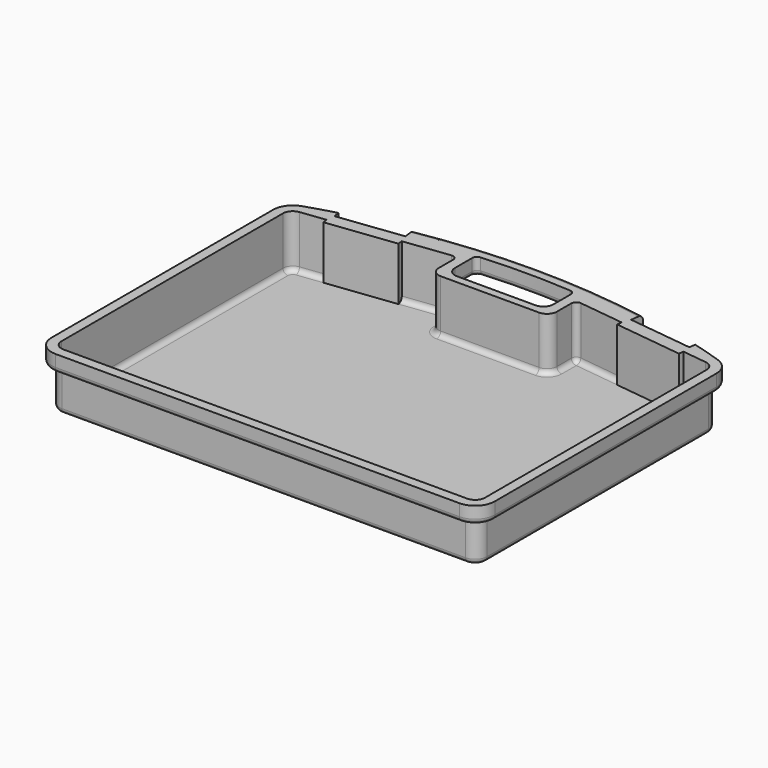
from build123d import *

# Parameters (mm, degrees)
F1_DEPTH = 57
F2_DEPTH = 80
F3_DEPTH = 77
F4_DEPTH = 40
F5_DEPTH = 57.001
F6_R     = 5


with BuildPart() as f1:
    # F0 (on Top) → F1 (new body)
    with BuildSketch(Plane.XY):
        with BuildLine():
            ThreePointArc((420, -10), (434.1421356237, -4.1421356237), (440, 10))
            Line((440, 10), (440, 291.1509565045))
            ThreePointArc((440, 291.1509565045), (436.1968936244, 302.883843486), (426.233936308, 310.1545887391))
            ThreePointArc((426.233936308, 310.1545887391), (411.1388826648, 314.9118550517), (395.9368508188, 319.315314489))
            Line((395.9368508188, 319.315314489), (395.1555055268, 312.9411818438))
            Line((395.1555055268, 312.9411818438), (329.6458449895, 320.9713982968))
            Line((329.6458449895, 320.9713982968), (331.2275542908, 333.8748162814))
            ThreePointArc((331.2275542908, 333.8748162814), (215, 343.916031702), (98.7724457092, 333.8748162814))
            Line((98.7724457092, 333.8748162814), (100.3541550105, 320.9713982968))
            Line((100.3541550105, 320.9713982968), (34.8444944732, 312.9411818438))
            Line((34.8444944732, 312.9411818438), (34.0631491812, 319.315314489))
            ThreePointArc((34.0631491812, 319.315314489), (18.8611173352, 314.9118550517), (3.766063692, 310.1545887391))
            ThreePointArc((3.766063692, 310.1545887391), (-6.1968936244, 302.883843486), (-10, 291.1509565045))
            Line((-10, 291.1509565045), (-10, 10))
            ThreePointArc((-10, 10), (-4.1421356237, -4.1421356237), (10, -10))
            Line((10, -10), (420, -10))
        make_face()
        with BuildLine():
            ThreePointArc((10, -2), (1.5147186258, 1.5147186258), (-2, 10))
            Line((-2, 10), (-2, 291.1509565045))
            ThreePointArc((-2, 291.1509565045), (1.0133300867, 299.1032997987), (8.5399606449, 303.0618038749))
            Line((8.5399606449, 303.0618038749), (35.6481864032, 306.3847476776))
            Line((35.6481864032, 306.3847476776), (36.2565361345, 301.4218946065))
            Line((36.2565361345, 301.4218946065), (101.7661966719, 309.4521110595))
            Line((101.7661966719, 309.4521110595), (101.1578469406, 314.4149641305))
            Line((101.1578469406, 314.4149641305), (149.1483103762, 320.2976661001))
            ThreePointArc((149.1483103762, 320.2976661001), (154.6388669216, 318.5918959167), (157, 313.3496718006))
            Line((157, 313.3496718006), (157, 297))
            ThreePointArc((157, 297), (159.9289321881, 289.9289321881), (167, 287))
            Line((167, 287), (263, 287))
            ThreePointArc((263, 287), (270.0710678119, 289.9289321881), (273, 297))
            Line((273, 297), (273, 313.3496718006))
            ThreePointArc((273, 313.3496718006), (275.3611330784, 318.5918959167), (280.8516896238, 320.2976661001))
            Line((280.8516896238, 320.2976661001), (328.8421530594, 314.4149641305))
            Line((328.8421530594, 314.4149641305), (328.2338033281, 309.4521110595))
            Line((328.2338033281, 309.4521110595), (393.7434638655, 301.4218946065))
            Line((393.7434638655, 301.4218946065), (394.3518135968, 306.3847476776))
            Line((394.3518135968, 306.3847476776), (421.4600393551, 303.0618038749))
            ThreePointArc((421.4600393551, 303.0618038749), (428.9866699133, 299.1032997987), (432, 291.1509565045))
            Line((432, 291.1509565045), (432, 10))
            ThreePointArc((432, 10), (428.4852813742, 1.5147186258), (420, -2))
            Line((420, -2), (10, -2))
        make_face(mode=Mode.SUBTRACT)
        with BuildLine():
            Line((255, 293), (175, 293))
            ThreePointArc((175, 293), (167.9289321881, 295.9289321881), (165, 303))
            Line((165, 303), (165, 325))
            ThreePointArc((165, 325), (166.345978485, 328.412935213), (169.6592507073, 329.988375479))
            ThreePointArc((169.6592507073, 329.988375479), (215, 331.5351563629), (260.3407492927, 329.988375479))
            ThreePointArc((260.3407492927, 329.988375479), (263.654021515, 328.412935213), (265, 325))
            Line((265, 325), (265, 303))
            ThreePointArc((265, 303), (262.0710678119, 295.9289321881), (255, 293))
        make_face(mode=Mode.SUBTRACT)
        with BuildLine():
            Line((-2, 291.1509565045), (-2, 10))
            ThreePointArc((-2, 10), (1.5147186258, 1.5147186258), (10, -2))
            Line((10, -2), (420, -2))
            ThreePointArc((420, -2), (428.4852813742, 1.5147186258), (432, 10))
            Line((432, 10), (432, 291.1509565045))
            ThreePointArc((432, 291.1509565045), (428.9866699133, 299.1032997987), (421.4600393551, 303.0618038749))
            Line((421.4600393551, 303.0618038749), (394.3518135968, 306.3847476776))
            Line((394.3518135968, 306.3847476776), (393.7434638655, 301.4218946065))
            Line((393.7434638655, 301.4218946065), (328.2338033281, 309.4521110595))
            Line((328.2338033281, 309.4521110595), (328.8421530594, 314.4149641305))
            Line((328.8421530594, 314.4149641305), (280.8516896238, 320.2976661001))
            ThreePointArc((280.8516896238, 320.2976661001), (275.3611330784, 318.5918959167), (273, 313.3496718006))
            Line((273, 313.3496718006), (273, 297))
            ThreePointArc((273, 297), (270.0710678119, 289.9289321881), (263, 287))
            Line((263, 287), (167, 287))
            ThreePointArc((167, 287), (159.9289321881, 289.9289321881), (157, 297))
            Line((157, 297), (157, 313.3496718006))
            ThreePointArc((157, 313.3496718006), (154.6388669216, 318.5918959167), (149.1483103762, 320.2976661001))
            Line((149.1483103762, 320.2976661001), (101.1578469406, 314.4149641305))
            Line((101.1578469406, 314.4149641305), (101.7661966719, 309.4521110595))
            Line((101.7661966719, 309.4521110595), (36.2565361345, 301.4218946065))
            Line((36.2565361345, 301.4218946065), (35.6481864032, 306.3847476776))
            Line((35.6481864032, 306.3847476776), (8.5399606449, 303.0618038749))
            ThreePointArc((8.5399606449, 303.0618038749), (1.0133300867, 299.1032997987), (-2, 291.1509565045))
        make_face()
        with BuildLine():
            Line((420, 0), (10, 0))
            ThreePointArc((10, 0), (2.9289321881, 2.9289321881), (0, 10))
            Line((0, 10), (0, 291.1509565045))
            ThreePointArc((0, 291.1509565045), (2.5111084056, 297.7779092497), (8.7833005374, 301.0766626465))
            Line((8.7833005374, 301.0766626465), (33.9063850673, 304.1562665566))
            Line((33.9063850673, 304.1562665566), (34.5147347986, 299.1934134856))
            Line((34.5147347986, 299.1934134856), (103.9946777928, 307.7103097236))
            Line((103.9946777928, 307.7103097236), (103.3863280615, 312.6731627946))
            Line((103.3863280615, 312.6731627946), (149.3916502687, 318.3125248716))
            ThreePointArc((149.3916502687, 318.3125248716), (153.3134763726, 317.0941175978), (155, 313.3496718006))
            Line((155, 313.3496718006), (155, 295))
            ThreePointArc((155, 295), (157.9289321881, 287.9289321881), (165, 285))
            Line((165, 285), (265, 285))
            ThreePointArc((265, 285), (272.0710678119, 287.9289321881), (275, 295))
            Line((275, 295), (275, 313.3496718006))
            ThreePointArc((275, 313.3496718006), (276.6865236274, 317.0941175978), (280.6083497313, 318.3125248716))
            Line((280.6083497313, 318.3125248716), (326.6136719385, 312.6731627946))
            Line((326.6136719385, 312.6731627946), (326.0053222072, 307.7103097236))
            Line((326.0053222072, 307.7103097236), (395.4852652014, 299.1934134856))
            Line((395.4852652014, 299.1934134856), (396.0936149327, 304.1562665566))
            Line((396.0936149327, 304.1562665566), (421.2166994626, 301.0766626465))
            ThreePointArc((421.2166994626, 301.0766626465), (427.4888915944, 297.7779092497), (430, 291.1509565045))
            Line((430, 291.1509565045), (430, 10))
            ThreePointArc((430, 10), (427.0710678119, 2.9289321881), (420, 0))
        make_face(mode=Mode.SUBTRACT)
        with BuildLine():
            ThreePointArc((0, 10), (2.9289321881, 2.9289321881), (10, 0))
            Line((10, 0), (420, 0))
            ThreePointArc((420, 0), (427.0710678119, 2.9289321881), (430, 10))
            Line((430, 10), (430, 291.1509565045))
            ThreePointArc((430, 291.1509565045), (427.4888915944, 297.7779092497), (421.2166994626, 301.0766626465))
            Line((421.2166994626, 301.0766626465), (396.0936149327, 304.1562665566))
            Line((396.0936149327, 304.1562665566), (395.4852652014, 299.1934134856))
            Line((395.4852652014, 299.1934134856), (326.0053222072, 307.7103097236))
            Line((326.0053222072, 307.7103097236), (326.6136719385, 312.6731627946))
            Line((326.6136719385, 312.6731627946), (280.6083497313, 318.3125248716))
            ThreePointArc((280.6083497313, 318.3125248716), (276.6865236274, 317.0941175978), (275, 313.3496718006))
            Line((275, 313.3496718006), (275, 295))
            ThreePointArc((275, 295), (272.0710678119, 287.9289321881), (265, 285))
            Line((265, 285), (165, 285))
            ThreePointArc((165, 285), (157.9289321881, 287.9289321881), (155, 295))
            Line((155, 295), (155, 313.3496718006))
            ThreePointArc((155, 313.3496718006), (153.3134763726, 317.0941175978), (149.3916502687, 318.3125248716))
            Line((149.3916502687, 318.3125248716), (103.3863280615, 312.6731627946))
            Line((103.3863280615, 312.6731627946), (103.9946777928, 307.7103097236))
            Line((103.9946777928, 307.7103097236), (34.5147347986, 299.1934134856))
            Line((34.5147347986, 299.1934134856), (33.9063850673, 304.1562665566))
            Line((33.9063850673, 304.1562665566), (8.7833005374, 301.0766626465))
            ThreePointArc((8.7833005374, 301.0766626465), (2.5111084056, 297.7779092497), (0, 291.1509565045))
            Line((0, 291.1509565045), (0, 10))
        make_face()
        with BuildLine():
            Line((395.1555055268, 312.9411818438), (395.9368508188, 319.315314489))
            ThreePointArc((395.9368508188, 319.315314489), (363.7604305222, 327.3871945773), (331.2275542908, 333.8748162814))
            Line((331.2275542908, 333.8748162814), (329.6458449895, 320.9713982968))
            Line((329.6458449895, 320.9713982968), (395.1555055268, 312.9411818438))
        make_face()
        with BuildLine():
            Line((100.3541550105, 320.9713982968), (98.7724457092, 333.8748162814))
            ThreePointArc((98.7724457092, 333.8748162814), (66.2395694778, 327.3871945773), (34.0631491812, 319.315314489))
            Line((34.0631491812, 319.315314489), (34.8444944732, 312.9411818438))
            Line((34.8444944732, 312.9411818438), (100.3541550105, 320.9713982968))
        make_face()
    extrude(amount=F1_DEPTH)

    # F0 (on Top) → F2 (join)
    with BuildSketch(Plane.XY):
        with BuildLine():
            ThreePointArc((0, 10), (2.9289321881, 2.9289321881), (10, 0))
            Line((10, 0), (420, 0))
            ThreePointArc((420, 0), (427.0710678119, 2.9289321881), (430, 10))
            Line((430, 10), (430, 291.1509565045))
            ThreePointArc((430, 291.1509565045), (427.4888915944, 297.7779092497), (421.2166994626, 301.0766626465))
            Line((421.2166994626, 301.0766626465), (396.0936149327, 304.1562665566))
            Line((396.0936149327, 304.1562665566), (395.4852652014, 299.1934134856))
            Line((395.4852652014, 299.1934134856), (326.0053222072, 307.7103097236))
            Line((326.0053222072, 307.7103097236), (326.6136719385, 312.6731627946))
            Line((326.6136719385, 312.6731627946), (280.6083497313, 318.3125248716))
            ThreePointArc((280.6083497313, 318.3125248716), (276.6865236274, 317.0941175978), (275, 313.3496718006))
            Line((275, 313.3496718006), (275, 295))
            ThreePointArc((275, 295), (272.0710678119, 287.9289321881), (265, 285))
            Line((265, 285), (165, 285))
            ThreePointArc((165, 285), (157.9289321881, 287.9289321881), (155, 295))
            Line((155, 295), (155, 313.3496718006))
            ThreePointArc((155, 313.3496718006), (153.3134763726, 317.0941175978), (149.3916502687, 318.3125248716))
            Line((149.3916502687, 318.3125248716), (103.3863280615, 312.6731627946))
            Line((103.3863280615, 312.6731627946), (103.9946777928, 307.7103097236))
            Line((103.9946777928, 307.7103097236), (34.5147347986, 299.1934134856))
            Line((34.5147347986, 299.1934134856), (33.9063850673, 304.1562665566))
            Line((33.9063850673, 304.1562665566), (8.7833005374, 301.0766626465))
            ThreePointArc((8.7833005374, 301.0766626465), (2.5111084056, 297.7779092497), (0, 291.1509565045))
            Line((0, 291.1509565045), (0, 10))
        make_face()
    extrude(amount=F2_DEPTH)

    # F3 (cut): a face of the model
    f3_faces = [f1.faces().sort_by_distance(p)[0] for p in [
        (215, 150.7715998753, 80),
    ]]
    extrude(f3_faces, amount=-F3_DEPTH, mode=Mode.SUBTRACT)

    # F0 (on Top) → F4 (cut)
    with BuildSketch(Plane.XY):
        with BuildLine():
            ThreePointArc((420, -10), (434.1421356237, -4.1421356237), (440, 10))
            Line((440, 10), (440, 291.1509565045))
            ThreePointArc((440, 291.1509565045), (436.1968936244, 302.883843486), (426.233936308, 310.1545887391))
            ThreePointArc((426.233936308, 310.1545887391), (411.1388826648, 314.9118550517), (395.9368508188, 319.315314489))
            Line((395.9368508188, 319.315314489), (395.1555055268, 312.9411818438))
            Line((395.1555055268, 312.9411818438), (329.6458449895, 320.9713982968))
            Line((329.6458449895, 320.9713982968), (331.2275542908, 333.8748162814))
            ThreePointArc((331.2275542908, 333.8748162814), (215, 343.916031702), (98.7724457092, 333.8748162814))
            Line((98.7724457092, 333.8748162814), (100.3541550105, 320.9713982968))
            Line((100.3541550105, 320.9713982968), (34.8444944732, 312.9411818438))
            Line((34.8444944732, 312.9411818438), (34.0631491812, 319.315314489))
            ThreePointArc((34.0631491812, 319.315314489), (18.8611173352, 314.9118550517), (3.766063692, 310.1545887391))
            ThreePointArc((3.766063692, 310.1545887391), (-6.1968936244, 302.883843486), (-10, 291.1509565045))
            Line((-10, 291.1509565045), (-10, 10))
            ThreePointArc((-10, 10), (-4.1421356237, -4.1421356237), (10, -10))
            Line((10, -10), (420, -10))
        make_face()
        with BuildLine():
            ThreePointArc((10, -2), (1.5147186258, 1.5147186258), (-2, 10))
            Line((-2, 10), (-2, 291.1509565045))
            ThreePointArc((-2, 291.1509565045), (1.0133300867, 299.1032997987), (8.5399606449, 303.0618038749))
            Line((8.5399606449, 303.0618038749), (35.6481864032, 306.3847476776))
            Line((35.6481864032, 306.3847476776), (36.2565361345, 301.4218946065))
            Line((36.2565361345, 301.4218946065), (101.7661966719, 309.4521110595))
            Line((101.7661966719, 309.4521110595), (101.1578469406, 314.4149641305))
            Line((101.1578469406, 314.4149641305), (149.1483103762, 320.2976661001))
            ThreePointArc((149.1483103762, 320.2976661001), (154.6388669216, 318.5918959167), (157, 313.3496718006))
            Line((157, 313.3496718006), (157, 297))
            ThreePointArc((157, 297), (159.9289321881, 289.9289321881), (167, 287))
            Line((167, 287), (263, 287))
            ThreePointArc((263, 287), (270.0710678119, 289.9289321881), (273, 297))
            Line((273, 297), (273, 313.3496718006))
            ThreePointArc((273, 313.3496718006), (275.3611330784, 318.5918959167), (280.8516896238, 320.2976661001))
            Line((280.8516896238, 320.2976661001), (328.8421530594, 314.4149641305))
            Line((328.8421530594, 314.4149641305), (328.2338033281, 309.4521110595))
            Line((328.2338033281, 309.4521110595), (393.7434638655, 301.4218946065))
            Line((393.7434638655, 301.4218946065), (394.3518135968, 306.3847476776))
            Line((394.3518135968, 306.3847476776), (421.4600393551, 303.0618038749))
            ThreePointArc((421.4600393551, 303.0618038749), (428.9866699133, 299.1032997987), (432, 291.1509565045))
            Line((432, 291.1509565045), (432, 10))
            ThreePointArc((432, 10), (428.4852813742, 1.5147186258), (420, -2))
            Line((420, -2), (10, -2))
        make_face(mode=Mode.SUBTRACT)
        with BuildLine():
            Line((255, 293), (175, 293))
            ThreePointArc((175, 293), (167.9289321881, 295.9289321881), (165, 303))
            Line((165, 303), (165, 325))
            ThreePointArc((165, 325), (166.345978485, 328.412935213), (169.6592507073, 329.988375479))
            ThreePointArc((169.6592507073, 329.988375479), (215, 331.5351563629), (260.3407492927, 329.988375479))
            ThreePointArc((260.3407492927, 329.988375479), (263.654021515, 328.412935213), (265, 325))
            Line((265, 325), (265, 303))
            ThreePointArc((265, 303), (262.0710678119, 295.9289321881), (255, 293))
        make_face(mode=Mode.SUBTRACT)
    extrude(amount=F4_DEPTH, mode=Mode.SUBTRACT)

    # F0 (on Top) → F5 (cut, through all)
    with BuildSketch(Plane.XY):
        with BuildLine():
            Line((100.3541550105, 320.9713982968), (98.7724457092, 333.8748162814))
            ThreePointArc((98.7724457092, 333.8748162814), (66.2395694778, 327.3871945773), (34.0631491812, 319.315314489))
            Line((34.0631491812, 319.315314489), (34.8444944732, 312.9411818438))
            Line((34.8444944732, 312.9411818438), (100.3541550105, 320.9713982968))
        make_face()
        with BuildLine():
            Line((395.1555055268, 312.9411818438), (395.9368508188, 319.315314489))
            ThreePointArc((395.9368508188, 319.315314489), (363.7604305222, 327.3871945773), (331.2275542908, 333.8748162814))
            Line((331.2275542908, 333.8748162814), (329.6458449895, 320.9713982968))
            Line((329.6458449895, 320.9713982968), (395.1555055268, 312.9411818438))
        make_face()
    extrude(amount=F5_DEPTH, mode=Mode.SUBTRACT)

    # F6
    f6_edges = [f1.edges().sort_by_distance(p)[0] for p in [
        (-10, 150.575478, 40),
        (215, 343.916032, 40),
        (215, 343.916032, 57),
        (215, 331.535156, 40),
        (432, 150.575478, 0),
        (215, 287, 0),
        (21.344843, 302.616465, 3),
        (126.388989, 315.492844, 3),
    ]]
    fillet(f6_edges, radius=F6_R)


solid = f1.part
